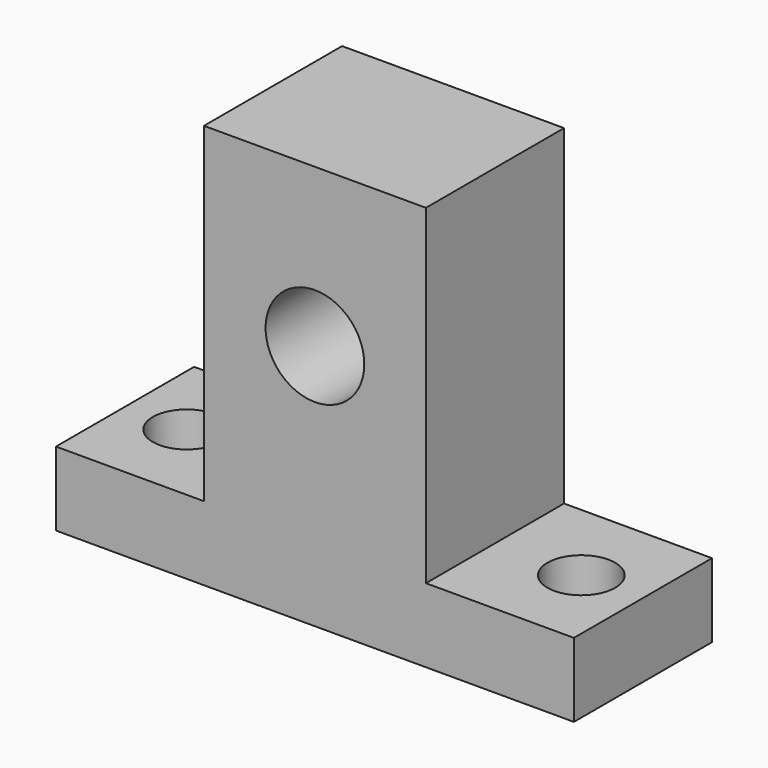
from build123d import *

# Parameters (mm, degrees)
F0_R     = 4
F1_DEPTH = 14
F3_D     = 5.5


with BuildPart() as f1:
    # F0 (on Front) → F1 (new body)
    with BuildSketch(Plane.XZ):
        Polygon((-21, -6), (0, -6), (21, -6), (21, 0), (9, 0), (9, 26.8), (0, 26.8), (-9, 26.8), (-9, 0), (-21, 0), align=None)
        with Locations((0, 14)):
            Circle(F0_R, mode=Mode.SUBTRACT)
    extrude(amount=F1_DEPTH)

    # F3 (through all)
    with Locations(Plane(origin=(0, 0, -6), x_dir=(1, 0, 0), z_dir=(0, 0, -1))):
        with Locations((-16, 7), (16, 7)):
            Hole(F3_D / 2)


solid = f1.part
